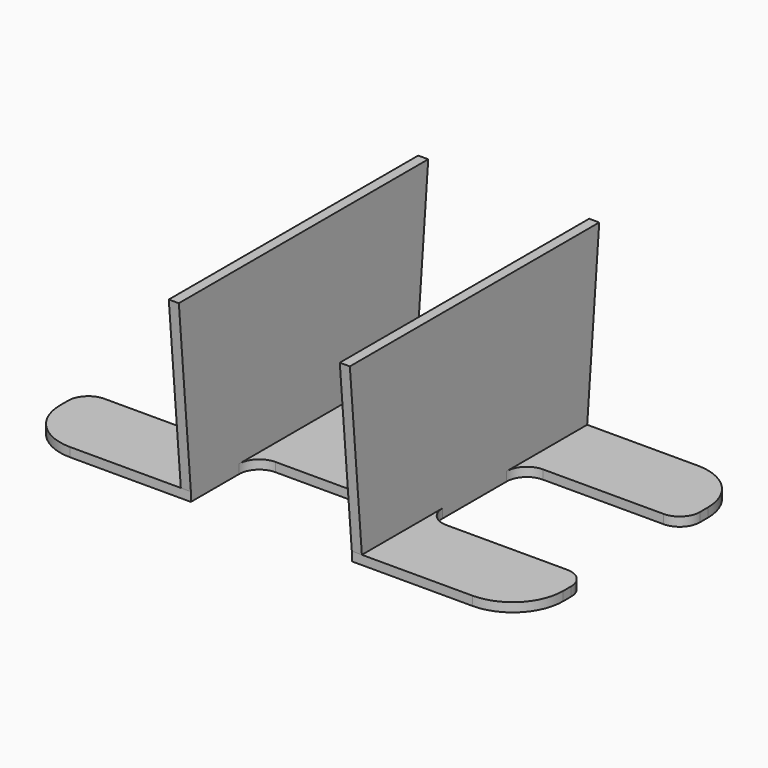
from build123d import *

# Parameters (mm, degrees)
F0_W     = 1
F0_H     = 8
F0_H_2   = 12
F0_W_2   = 16
F1_DEPTH = 0.9
F2_DEPTH = 18
F3_R     = 2
F5_DEPTH = 1
F7_DEPTH = 1


with BuildPart() as f1:
    # F0 (on Top) → F1 (new body)
    with BuildSketch(Plane.XY):
        with BuildLine():
            Line((-9, 14), (-20, 14))
            ThreePointArc((-20, 14), (-23.5355339059, 12.5355339059), (-25, 9))
            Line((-25, 9), (-25, 6))
            Line((-25, 6), (-9, 6))
            Line((-9, 6), (-9, 14))
        make_face()
        with Locations((-8.5, 10)):
            Rectangle(F0_W, F0_H)
        with Locations((-8.5, 0)):
            Rectangle(F0_W, F0_H_2)
        with Locations((-8.5, -10)):
            Rectangle(F0_W, F0_H)
        with BuildLine():
            Line((-9, -14), (-9, -6))
            Line((-9, -6), (-25, -6))
            Line((-25, -6), (-25, -9))
            ThreePointArc((-25, -9), (-23.5355339059, -12.5355339059), (-20, -14))
            Line((-20, -14), (-9, -14))
        make_face()
        with BuildLine():
            Line((25, -6), (9, -6))
            Line((9, -6), (9, -14))
            Line((9, -14), (20, -14))
            ThreePointArc((20, -14), (23.5355339059, -12.5355339059), (25, -9))
            Line((25, -9), (25, -6))
        make_face()
        with BuildLine():
            Line((20, 14), (9, 14))
            Line((9, 14), (9, 6))
            Line((9, 6), (25, 6))
            Line((25, 6), (25, 9))
            ThreePointArc((25, 9), (23.5355339059, 12.5355339059), (20, 14))
        make_face()
        with Locations((8.5, 10)):
            Rectangle(F0_W, F0_H)
        with Locations((8.5, 0)):
            Rectangle(F0_W, F0_H_2)
        with Locations((8.5, -10)):
            Rectangle(F0_W, F0_H)
        Rectangle(F0_W_2, F0_H_2)
    extrude(amount=F1_DEPTH)

    # F0 (on Top) → F2 (join)
    with BuildSketch(Plane.XY):
        with Locations((-8.5, -10)):
            Rectangle(F0_W, F0_H)
        with Locations((-8.5, 0)):
            Rectangle(F0_W, F0_H_2)
        with Locations((-8.5, 10)):
            Rectangle(F0_W, F0_H)
        with Locations((8.5, 10)):
            Rectangle(F0_W, F0_H)
        with Locations((8.5, 0)):
            Rectangle(F0_W, F0_H_2)
        with Locations((8.5, -10)):
            Rectangle(F0_W, F0_H)
    extrude(amount=F2_DEPTH)

    # F3
    f3_edges = [f1.edges().sort_by_distance(p)[0] for p in [
        (-25, 6, 0.45),
        (-9, 6, 0.45),
        (-9, -6, 0.45),
        (-25, -6, 0.45),
        (-8, 6, 0.45),
        (8, 6, 0.45),
        (25, 6, 0.45),
        (25, -6, 0.45),
        (9, 6, 0.45),
        (9, -6, 0.45),
        (8, -6, 0.45),
        (-8, -6, 0.45),
    ]]
    fillet(f3_edges, radius=F3_R)

    # F4 (on face) → F5 (join)
    with BuildSketch(Plane.YZ.offset(9)):
        Polygon((-15.4960561463, 18), (-14, 0.9), (-14, 18), align=None)
        Polygon((15.4960561463, 18), (14, 18), (14, 0.9), align=None)
    extrude(amount=-F5_DEPTH)

    # F6 (on face) → F7 (join)
    with BuildSketch(Plane(origin=(-9, 0, 0), x_dir=(0, -1, 0), z_dir=(-1, 0, 0))):
        Polygon((-14, 0.9), (-14, 18), (-15.4960561463, 18), align=None)
        Polygon((15.4960561463, 18), (14, 18), (14, 0.9), align=None)
    extrude(amount=-F7_DEPTH)


solid = f1.part
